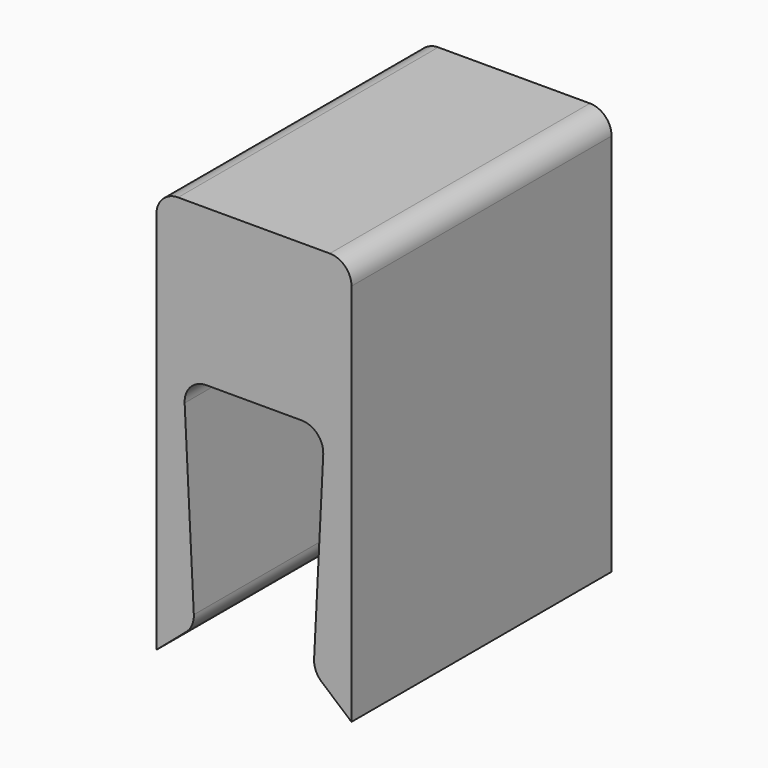
from build123d import *

# Parameters (mm, degrees)
F1_DEPTH = 15
F2_R     = 1
F3_R     = 1


with BuildPart() as f1:
    # F0 (on Front) → F1 (new body)
    with BuildSketch(Plane.XZ):
        Polygon((-4.5, 0), (-4.5, -18.7), (-2.75, -17.2), (-3.25, -7.2), (3.25, -7.2), (2.75, -17.2), (4.5, -18.7), (4.5, -1), (4.5, 0), align=None)
    extrude(amount=F1_DEPTH)

    # F2
    f2_edges = [f1.edges().sort_by_distance(p)[0] for p in [
        (-2.75, -7.5, -17.2),
        (-4.5, -7.5, 0),
        (4.5, -7.5, 0),
        (2.75, -7.5, -17.2),
    ]]
    fillet(f2_edges, radius=F2_R)

    # F3
    f3_edges = [f1.edges().sort_by_distance(p)[0] for p in [
        (-3.25, -7.5, -7.2),
        (3.25, -7.5, -7.2),
    ]]
    fillet(f3_edges, radius=F3_R)


solid = f1.part
